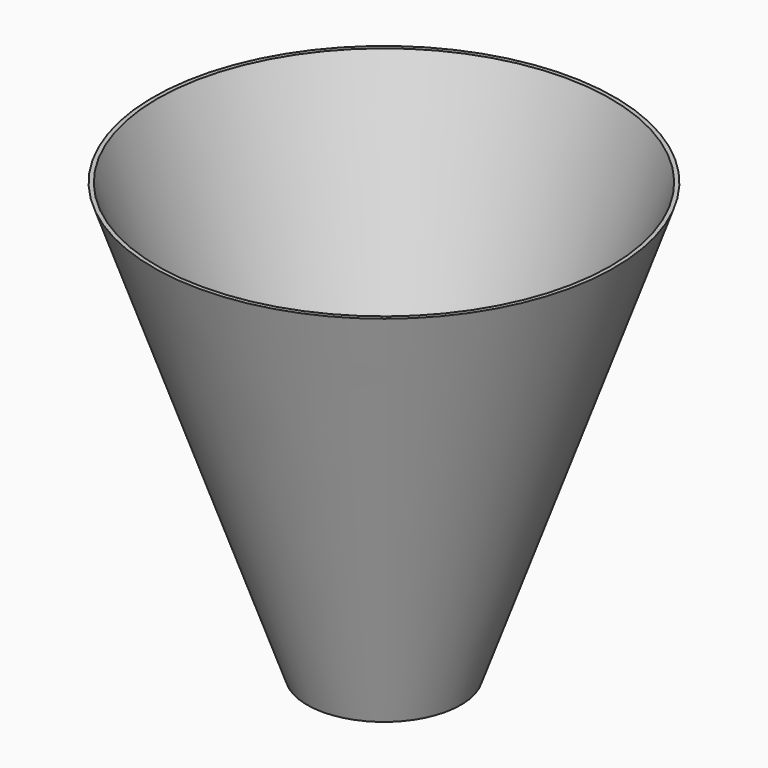
from build123d import *

# Parameters (mm, degrees)
F2_T = -2.5
F4_D = 20


with BuildPart() as f1:
    # F0 (on Right) → F1 (revolve)
    with BuildSketch(Plane.YZ):
        Polygon((-50, 0), (0, 0), (0, 282.842712), (-150, 282.842712), align=None)
    revolve(axis=Axis((0, 0, 141.421356), (0, 0, -1)))

    # F2
    f2_openings = [f1.faces().sort_by_distance(p)[0] for p in [
        (0, 0, 282.842712),
    ]]
    offset(amount=F2_T, openings=f2_openings)

    # F4 (through all)
    with Locations(Plane(origin=(0, 0, 0), x_dir=(1, 0, 0), z_dir=(0, 0, -1))):
        with Locations((0, 0)):
            Hole(F4_D / 2)


solid = f1.part
